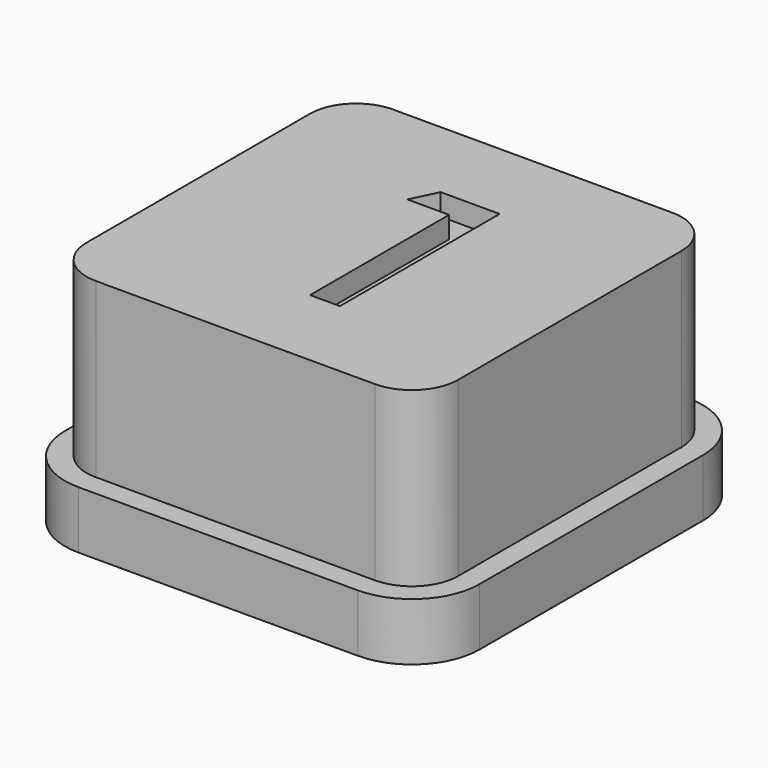
from build123d import *

# Parameters (mm, degrees)
F1_DEPTH = 2
F2_DEPTH = 8
F3_DEPTH = 7.25


with BuildPart() as f1:
    # F0 (on Top) → F1 (new body)
    with BuildSketch(Plane.XY):
        with BuildLine():
            Line((4.85, 7.2), (-4.85, 7.2))
            ThreePointArc((-4.85, 7.2), (-6.511701, 6.511701), (-7.2, 4.85))
            Line((-7.2, 4.85), (-7.2, -4.85))
            ThreePointArc((-7.2, -4.85), (-6.511701, -6.511701), (-4.85, -7.2))
            Line((-4.85, -7.2), (4.85, -7.2))
            ThreePointArc((4.85, -7.2), (6.511701, -6.511701), (7.2, -4.85))
            Line((7.2, -4.85), (7.2, 4.85))
            ThreePointArc((7.2, 4.85), (6.511701, 6.511701), (4.85, 7.2))
        make_face()
        with BuildLine():
            ThreePointArc((6.45, -4.85), (5.981371, -5.981371), (4.85, -6.45))
            Line((4.85, -6.45), (-4.85, -6.45))
            ThreePointArc((-4.85, -6.45), (-5.981371, -5.981371), (-6.45, -4.85))
            Line((-6.45, -4.85), (-6.45, 4.85))
            ThreePointArc((-6.45, 4.85), (-5.981371, 5.981371), (-4.85, 6.45))
            Line((-4.85, 6.45), (4.85, 6.45))
            ThreePointArc((4.85, 6.45), (5.981371, 5.981371), (6.45, 4.85))
            Line((6.45, 4.85), (6.45, -4.85))
        make_face(mode=Mode.SUBTRACT)
    extrude(amount=F1_DEPTH)

    # F0 (on Top) → F2 (join)
    with BuildSketch(Plane.XY):
        with BuildLine():
            Line((-4.85, -6.45), (4.85, -6.45))
            ThreePointArc((4.85, -6.45), (5.981371, -5.981371), (6.45, -4.85))
            Line((6.45, -4.85), (6.45, 4.85))
            ThreePointArc((6.45, 4.85), (5.981371, 5.981371), (4.85, 6.45))
            Line((4.85, 6.45), (-4.85, 6.45))
            ThreePointArc((-4.85, 6.45), (-5.981371, 5.981371), (-6.45, 4.85))
            Line((-6.45, 4.85), (-6.45, -4.85))
            ThreePointArc((-6.45, -4.85), (-5.981371, -5.981371), (-4.85, -6.45))
        make_face()
        Polygon((1.243107, -3.466724), (0.205538, -3.466724), (0.205538, 2.567429), (-1.243232, 2.567429), (-0.803342, 3.466336), (1.243107, 3.466336), align=None, mode=Mode.SUBTRACT)
    extrude(amount=F2_DEPTH)

    # F0 (on Top) → F3 (join)
    with BuildSketch(Plane.XY):
        Polygon((0.205538, 2.567429), (0.205538, -3.466724), (1.243107, -3.466724), (1.243107, 3.466336), (-0.803342, 3.466336), (-1.243232, 2.567429), align=None)
    extrude(amount=F3_DEPTH)


solid = f1.part
